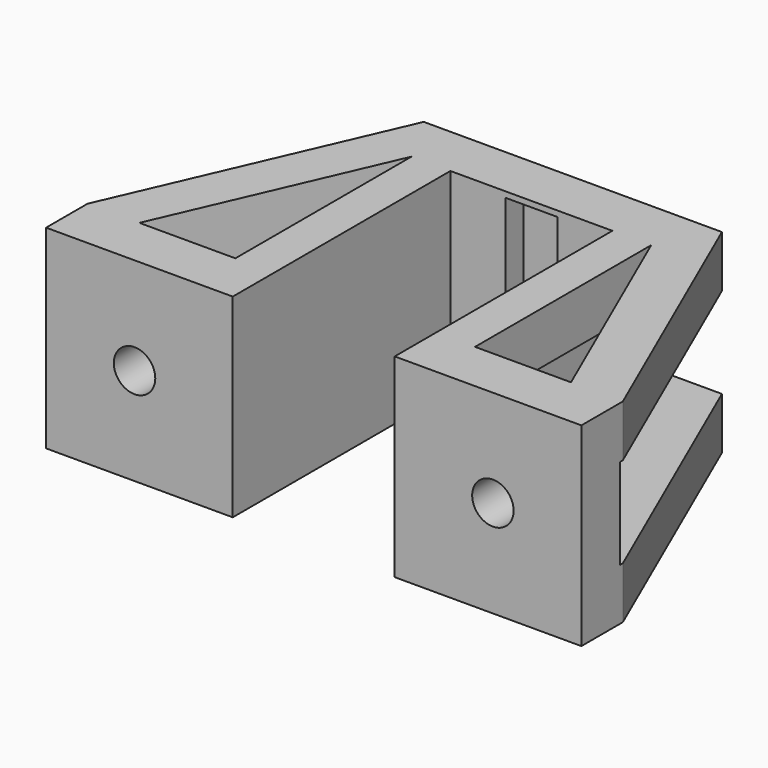
from build123d import *

# Parameters (mm, degrees)
PAD024_DEPTH       = 7.5
SKETCH062_W        = 16.391504
SKETCH062_H        = 7
POCKET003023_DEPTH = 22
SKETCH060_R        = 1.6
POCKET003024_DEPTH = 5.735743
SKETCH063_W        = 4
SKETCH063_H        = 12.856441
POCKET003025_DEPTH = 2


with BuildPart() as part:
    # Sketch061 → Pad024 (new body, symmetric)
    with BuildSketch(Plane.XY.offset(19.55)):
        Polygon((-11.506902, 93.265257), (11.506902, 93.265257), (20.658167, 72.265257), (20.658167, 68.265257), (6.25, 68.265257), (6.25, 89.265257), (-6.25, 89.265257), (-6.25, 68.265257), (-20.658167, 68.265257), (-20.658167, 72.265257), align=None)
        Polygon((-9.25, 72.265257), (-16.658167, 72.265257), (-9.25, 89.265257), align=None, mode=Mode.SUBTRACT)
        Polygon((9.25, 89.265257), (9.25, 72.265257), (16.658167, 72.265257), align=None, mode=Mode.SUBTRACT)
    extrude(amount=PAD024_DEPTH, both=True)

    # Sketch062 → Pocket003023 (cut)
    with BuildSketch(Plane.XZ.offset(-94)):
        with Locations((14.465183, 19.55)):
            Rectangle(SKETCH062_W, SKETCH062_H)
    pocket003023 = extrude(amount=POCKET003023_DEPTH, mode=Mode.SUBTRACT)

    # Mirrored003: Pocket003023 across Sketch062 V_Axis
    add(pocket003023.mirror(Plane(origin=(0, 94, 0), x_dir=(0, -1, 0), z_dir=(1, 0, 0))), mode=Mode.SUBTRACT)

    # Sketch060 → Pocket003024 (cut, through all)
    with BuildSketch(Plane.XZ.offset(-74)):
        with Locations((-13.83, 19.55)):
            Circle(SKETCH060_R)
        with Locations((13.83, 19.55)):
            Circle(SKETCH060_R)
    extrude(amount=POCKET003024_DEPTH, mode=Mode.SUBTRACT)

    # Sketch063 → Pocket003025 (cut)
    with BuildSketch(Plane.XZ.offset(-89)):
        with Locations((0, 20.182275)):
            Rectangle(SKETCH063_W, SKETCH063_H)
    extrude(amount=-POCKET003025_DEPTH, mode=Mode.SUBTRACT)


with BuildPart() as part_1:
    # Body012 placement: moved
    add(part.part.moved(Location((0, 2.5, 0))))


solid = part_1.part
